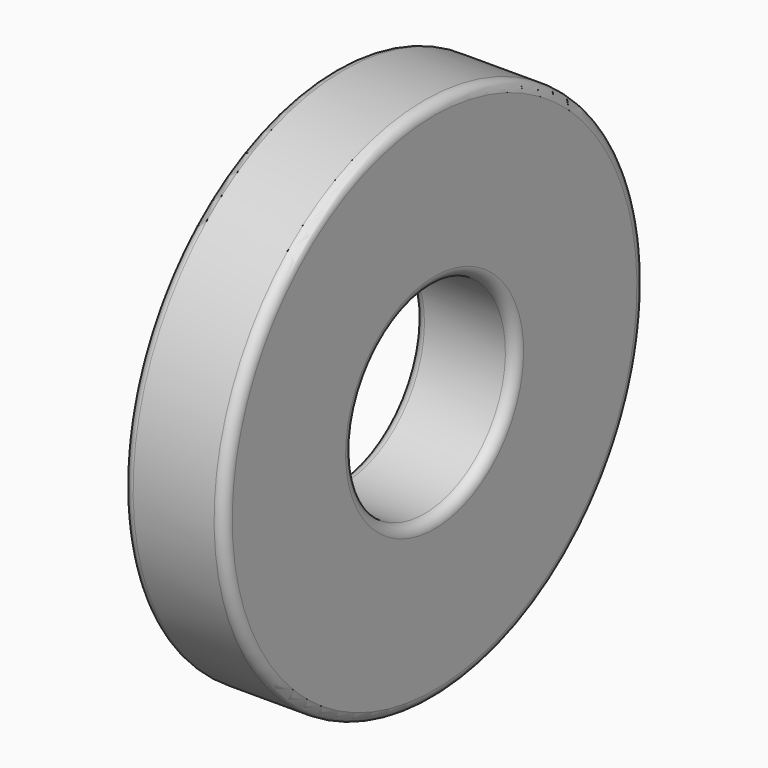
from build123d import *


with BuildPart() as f1:
    # F0 (on Front) → F1 (revolve)
    with BuildSketch(Plane.XZ):
        with BuildLine():
            Line((5.08, 33.02), (-5.08, 33.02))
            ThreePointArc((-5.08, 33.02), (-5.978026, 32.648026), (-6.35, 31.75))
            Line((-6.35, 31.75), (-6.35, 13.97))
            ThreePointArc((-6.35, 13.97), (-5.978026, 13.071974), (-5.08, 12.7))
            Line((-5.08, 12.7), (5.08, 12.7))
            ThreePointArc((5.08, 12.7), (5.978026, 13.071974), (6.35, 13.97))
            Line((6.35, 13.97), (6.35, 31.75))
            ThreePointArc((6.35, 31.75), (5.978026, 32.648026), (5.08, 33.02))
        make_face()
    revolve(axis=Axis((-17.721478, 0, 0), (-1, 0, 0)))


solid = f1.part
